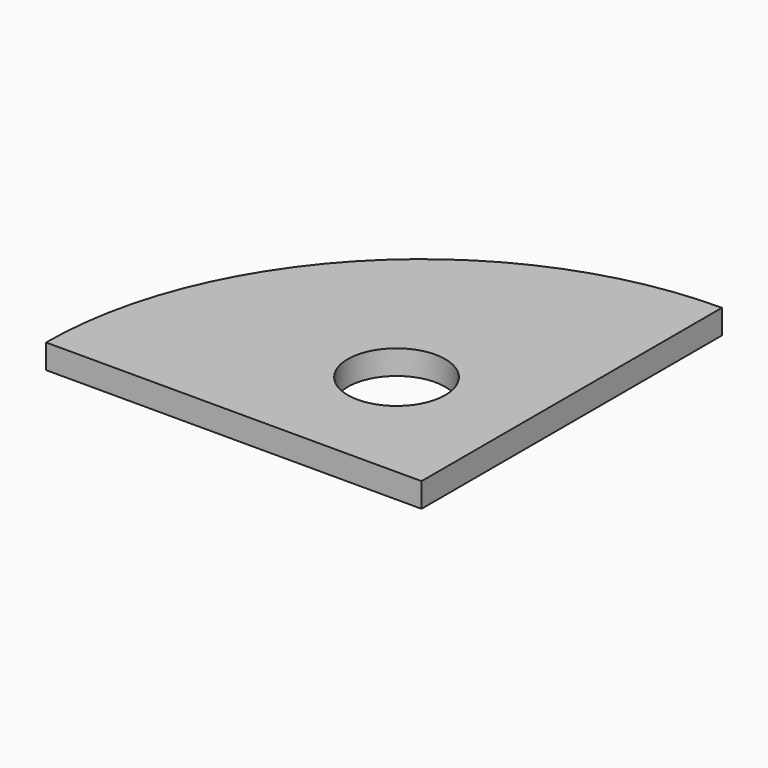
from build123d import *

# Parameters (mm, degrees)
F0_R     = 10
F1_DEPTH = 5


with BuildPart() as f1:
    # F0 (on Top) → F1 (new body)
    with BuildSketch(Plane.XY):
        with BuildLine():
            Line((0, 0), (0, 77))
            ThreePointArc((0, 77), (-54.447222, 54.447222), (-77, 0))
            Line((-77, 0), (0, 0))
        make_face()
        with Locations((-25.666667, 25.666667)):
            Circle(F0_R, mode=Mode.SUBTRACT)
    extrude(amount=F1_DEPTH)


solid = f1.part
